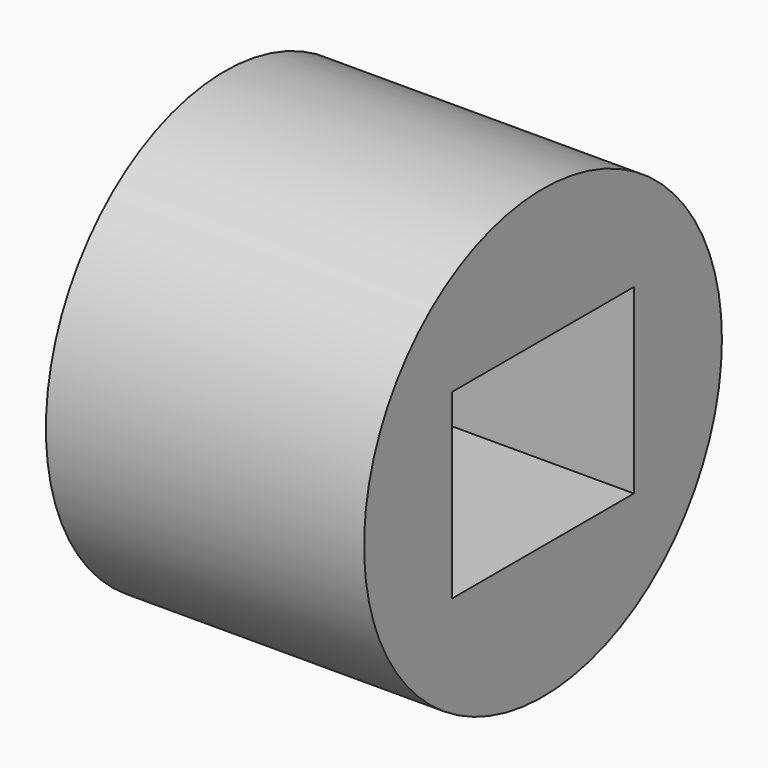
from build123d import *

# Parameters (mm, degrees)
F0_R     = 124.968
F0_W     = 127
F0_H     = 101.6
F1_DEPTH = 177.8


with BuildPart() as f1:
    # F0 (on Right) → F1 (new body)
    with BuildSketch(Plane.YZ):
        Circle(F0_R)
        Rectangle(F0_W, F0_H, mode=Mode.SUBTRACT)
    extrude(amount=F1_DEPTH)


solid = f1.part
